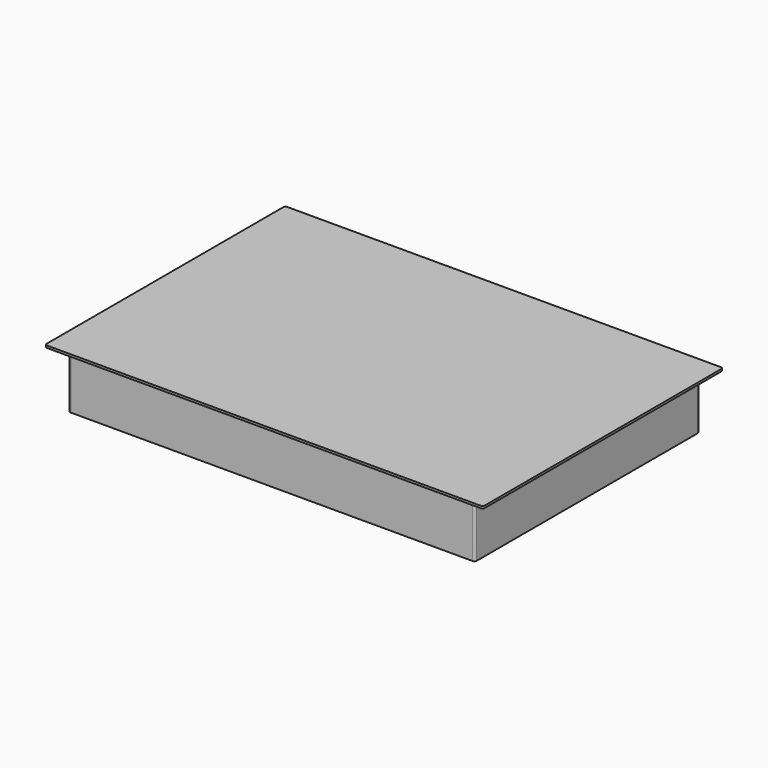
from build123d import *

# Parameters (mm, degrees)
F0_W     = 731
F0_H     = 505
F1_DEPTH = 100
F2_W     = 788
F2_H     = 540
F3_DEPTH = 4
F4_R     = 4
F4_2_R   = 4


with BuildPart() as f1:
    # F0 (on Top) → F1 (new body)
    with BuildSketch(Plane.XY):
        Rectangle(F0_W, F0_H)
    extrude(amount=-F1_DEPTH)

    # F4#2
    f4_2_edges = [f1.edges().sort_by_distance(p)[0] for p in [
        (365.5, -252.5, -50),
        (365.5, 252.5, -50),
        (-365.5, 252.5, -50),
        (-365.5, -252.5, -50),
    ]]
    fillet(f4_2_edges, radius=F4_2_R)


with BuildPart() as f3:
    # F2 (on face) → F3 (new body)
    with BuildSketch(Plane.XY):
        Rectangle(F2_W, F2_H)
    extrude(amount=F3_DEPTH)

    # F4
    f4_edges = [f3.edges().sort_by_distance(p)[0] for p in [
        (-394, -270, 2),
        (394, -270, 2),
        (394, 270, 2),
        (-394, 270, 2),
    ]]
    fillet(f4_edges, radius=F4_R)


solid = Compound([f1.part, f3.part])
